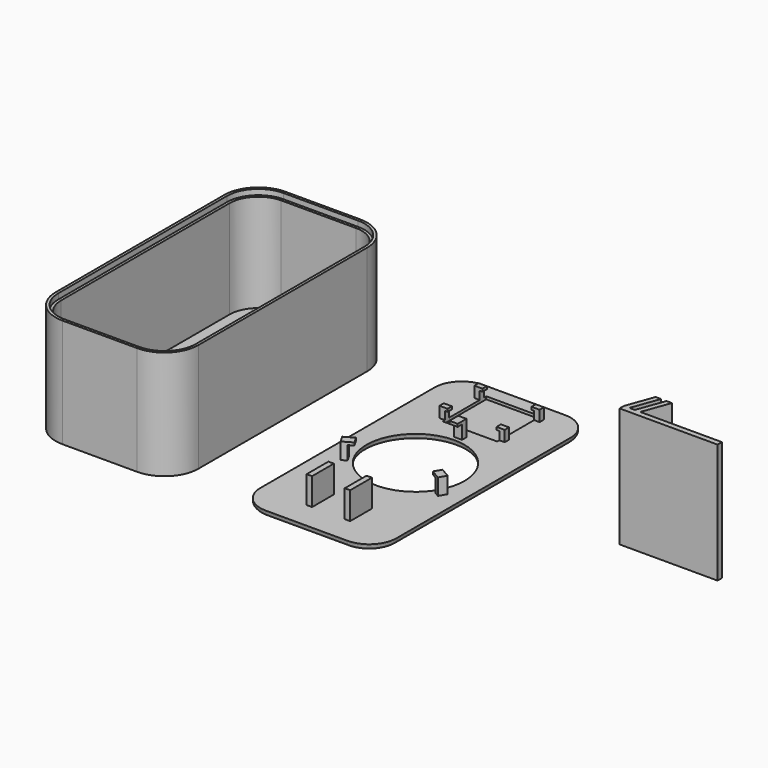
from build123d import *

# Parameters (mm, degrees)
PAD_DEPTH          = 2
SKETCH007_W        = 20
SKETCH007_H        = 20
POCKET001_DEPTH    = 1
SKETCH002_R        = 18
POCKET_DEPTH       = 2.001
SKETCH004_W        = 3
SKETCH004_H        = 2
PAD003_DEPTH       = 5
SKETCH005_W        = 3
SKETCH005_H        = 4
PAD004_DEPTH       = 1
POLARPATTERN_COUNT = 3
FILLET_R           = 1.5
SKETCH008_W        = 2
SKETCH008_H        = 2
PAD006_DEPTH       = 3
SKETCH009_W        = 3
SKETCH009_H        = 2
PAD007_DEPTH       = 1
SKETCH010_W        = 3
SKETCH010_H        = 2
PAD008_DEPTH       = 1
SKETCH011_W        = 3
SKETCH011_H        = 2
PAD009_DEPTH       = 1
SKETCH012_W        = 3
SKETCH012_H        = 2
PAD010_DEPTH       = 1
SKETCH017_W        = 2
SKETCH017_H        = 10
PAD012_DEPTH       = 10
PAD002_DEPTH       = 44
PAD011_DEPTH       = 40
POCKET002_DEPTH    = 2
POCKET003_DEPTH    = 36
POCKET004_DEPTH    = 2.001


with BuildPart() as body:
    # Sketch → Pad (new body)
    with BuildSketch(Plane.XY):
        with BuildLine():
            Line((-25, 40), (-25, -40))
            ThreePointArc((-25, -40), (-22.071068, -47.071068), (-15, -50))
            Line((-15, -50), (15, -50))
            ThreePointArc((15, -50), (22.071068, -47.071068), (25, -40))
            Line((25, -40), (25, 40))
            ThreePointArc((25, 40), (22.071068, 47.071068), (15, 50))
            Line((15, 50), (-15, 50))
            ThreePointArc((-15, 50), (-22.071068, 47.071068), (-25, 40))
        make_face()
    extrude(amount=PAD_DEPTH)

    # Sketch007 (on Face10 of Pad) → Pocket001 (cut)
    with BuildSketch(Plane.XY.offset(2)):
        with Locations((0, 35)):
            Rectangle(SKETCH007_W, SKETCH007_H)
    extrude(amount=-POCKET001_DEPTH, mode=Mode.SUBTRACT)

    # Sketch002 (on Face10 of Pad) → Pocket (cut, through all)
    with BuildSketch(Plane.XY.offset(2)):
        Circle(SKETCH002_R)
    extrude(amount=-POCKET_DEPTH, mode=Mode.SUBTRACT)

    # Sketch004 (on Face10 of Pad) → Pad003 (join)
    with BuildSketch(Plane.XY.offset(2)):
        with Locations((0, 20.5)):
            Rectangle(SKETCH004_W, SKETCH004_H)
    pad003 = extrude(amount=PAD003_DEPTH)

    # Sketch005 (on Face20 of Pad003) → Pad004 (join)
    with BuildSketch(Plane.XY.offset(7)):
        with Locations((0, 19.5)):
            Rectangle(SKETCH005_W, SKETCH005_H)
    pad004 = extrude(amount=PAD004_DEPTH)

    # PolarPattern: Pad003, Pad004 ×3 about axis
    polarpattern_axis = Axis((0, 0, 2), (0, 0, 1))
    for i in range(1, POLARPATTERN_COUNT):
        add(pad003.rotate(polarpattern_axis, i * 360 / POLARPATTERN_COUNT))
        add(pad004.rotate(polarpattern_axis, i * 360 / POLARPATTERN_COUNT))

    # Fillet
    fillet_edges = [body.edges().sort_by_distance(p)[0] for p in [
        (-18, 0, 0),
        (25, 0, 0),
        (22.071068, 47.071068, 0),
        (0, 50, 0),
        (-22.071068, 47.071068, 0),
        (-25, 0, 0),
    ]]
    fillet(fillet_edges, radius=FILLET_R)

    # Sketch008 (on Face10 of Pad) → Pad006 (join)
    with BuildSketch(Plane.XY.offset(2)):
        with Locations((-11, 43)):
            Rectangle(SKETCH008_W, SKETCH008_H)
        with Locations((11, 43)):
            Rectangle(SKETCH008_W, SKETCH008_H)
        with Locations((11, 27)):
            Rectangle(SKETCH008_W, SKETCH008_H)
        with Locations((-11, 27)):
            Rectangle(SKETCH008_W, SKETCH008_H)
    extrude(amount=PAD006_DEPTH)

    # Sketch009 (on Face57 of Pad006) → Pad007 (join)
    with BuildSketch(Plane.XY.offset(5)):
        with Locations((-10.5, 43)):
            Rectangle(SKETCH009_W, SKETCH009_H)
    extrude(amount=PAD007_DEPTH)

    # Sketch010 (on Face56 of Pad007) → Pad008 (join)
    with BuildSketch(Plane.XY.offset(5)):
        with Locations((-10.5, 27)):
            Rectangle(SKETCH010_W, SKETCH010_H)
    extrude(amount=PAD008_DEPTH)

    # Sketch011 (on Face61 of Pad008) → Pad009 (join)
    with BuildSketch(Plane.XY.offset(5)):
        with Locations((10.5, 43)):
            Rectangle(SKETCH011_W, SKETCH011_H)
    extrude(amount=PAD009_DEPTH)

    # Sketch012 (on Face62 of Pad009) → Pad010 (join)
    with BuildSketch(Plane.XY.offset(5)):
        with Locations((10.5, 27)):
            Rectangle(SKETCH012_W, SKETCH012_H)
    extrude(amount=PAD010_DEPTH)

    # Sketch017 (on Face4 of Pad010) → Pad012 (join)
    with BuildSketch(Plane.XY.offset(2)):
        with Locations((7, -35)):
            Rectangle(SKETCH017_W, SKETCH017_H)
        with Locations((-7, -35)):
            Rectangle(SKETCH017_W, SKETCH017_H)
    extrude(amount=PAD012_DEPTH)


with BuildPart() as stand:
    # Sketch003 → Pad002 (new body)
    with BuildSketch(Plane.XY):
        Polygon((75, 0), (111, 0), (111, 2), (81, 2), (84.639702, 12), (82.639702, 12), (79, 2), (77, 2), (80.639702, 12), (78.639702, 12), (75, 2), align=None)
    extrude(amount=PAD002_DEPTH)


with BuildPart() as frame:
    # Sketch013 → Pad011 (new body)
    with BuildSketch(Plane.XY):
        with BuildLine():
            Line((-101.25, 38.75), (-101.25, -38.75))
            ThreePointArc((-101.25, -38.75), (-97.588835, -47.588835), (-88.75, -51.25))
            Line((-88.75, -51.25), (-61.25, -51.25))
            ThreePointArc((-61.25, -51.25), (-52.411165, -47.588835), (-48.75, -38.75))
            Line((-48.75, -38.75), (-48.75, 38.75))
            ThreePointArc((-48.75, 38.75), (-52.411165, 47.588835), (-61.25, 51.25))
            Line((-61.25, 51.25), (-88.75, 51.25))
            ThreePointArc((-88.75, 51.25), (-97.588835, 47.588835), (-101.25, 38.75))
        make_face()
    extrude(amount=PAD011_DEPTH)

    # Sketch014 (on Face10 of Pad011) → Pocket002 (cut)
    with BuildSketch(Plane.XY.offset(40)):
        with BuildLine():
            Line((-100.25, 38.75), (-100.25, -38.75))
            ThreePointArc((-100.25, -38.75), (-96.881728, -46.881728), (-88.75, -50.25))
            Line((-88.75, -50.25), (-61.25, -50.25))
            ThreePointArc((-61.25, -50.25), (-53.118272, -46.881728), (-49.75, -38.75))
            Line((-49.75, -38.75), (-49.75, 38.75))
            ThreePointArc((-49.75, 38.75), (-53.118272, 46.881728), (-61.25, 50.25))
            Line((-61.25, 50.25), (-88.75, 50.25))
            ThreePointArc((-88.75, 50.25), (-96.881728, 46.881728), (-100.25, 38.75))
        make_face()
    extrude(amount=-POCKET002_DEPTH, mode=Mode.SUBTRACT)

    # Sketch015 (on Face19 of Pocket002) → Pocket003 (cut)
    with BuildSketch(Plane.XY.offset(38)):
        with BuildLine():
            Line((-99.25, 38.75), (-99.25, -38.75))
            ThreePointArc((-99.25, -38.75), (-96.174621, -46.174621), (-88.75, -49.25))
            Line((-88.75, -49.25), (-61.25, -49.25))
            ThreePointArc((-61.25, -49.25), (-53.825379, -46.174621), (-50.75, -38.75))
            Line((-50.75, -38.75), (-50.75, 38.75))
            ThreePointArc((-50.75, 38.75), (-53.825379, 46.174621), (-61.25, 49.25))
            Line((-61.25, 49.25), (-88.75, 49.25))
            ThreePointArc((-88.75, 49.25), (-96.174621, 46.174621), (-99.25, 38.75))
        make_face()
    extrude(amount=-POCKET003_DEPTH, mode=Mode.SUBTRACT)

    # Sketch016 (on Face28 of Pocket003) → Pocket004 (cut, through all)
    with BuildSketch(Plane.XY.offset(2)):
        with BuildLine():
            Line((-88.75, -49.25), (-61.25, -49.25))
            ThreePointArc((-61.25, -49.25), (-53.825379, -46.174621), (-50.75, -38.75))
            Line((-50.75, -19.25), (-50.75, -38.75))
            Line((-99.25, -19.25), (-50.75, -19.25))
            Line((-99.25, -38.75), (-99.25, -19.25))
            ThreePointArc((-99.25, -38.75), (-96.174621, -46.174621), (-88.75, -49.25))
        make_face()
    extrude(amount=-POCKET004_DEPTH, mode=Mode.SUBTRACT)


solid = Compound([body.part, stand.part, frame.part])
